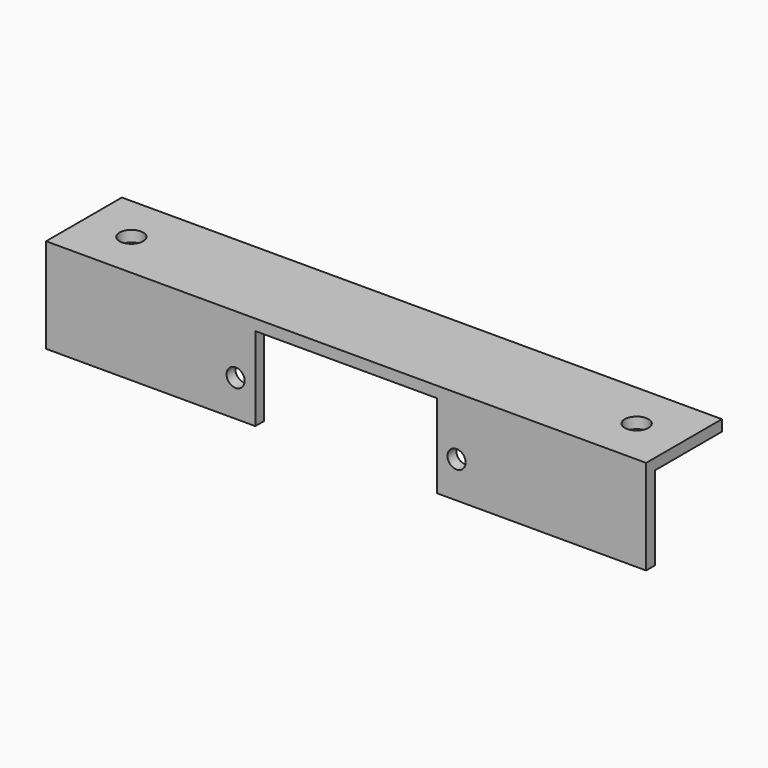
from build123d import *

# Parameters (mm, degrees)
F1_DEPTH = 76
F2_W     = 23
F2_H     = 10.6
F2_R     = 1.15
F3_DEPTH = 1.4
F4_R     = 1.5
F5_DEPTH = 1.4


with BuildPart() as f1:
    # F0 (on Right) → F1 (new body)
    with BuildSketch(Plane.YZ):
        Polygon((0, 12), (0, 0), (1.4, 0), (1.4, 10.6), (12, 10.6), (12, 12), align=None)
    extrude(amount=F1_DEPTH)

    # F2 (on face) → F3 (cut, through all)
    with BuildSketch(Plane.XZ):
        with Locations((38, 5.3)):
            Rectangle(F2_W, F2_H)
        with Locations((24.01, 4.6)):
            Circle(F2_R)
        with Locations((51.99, 4.6)):
            Circle(F2_R)
    extrude(amount=-F3_DEPTH, mode=Mode.SUBTRACT)

    # F4 (on face) → F5 (cut, through all)
    with BuildSketch(Plane.XY.offset(12)):
        with Locations((6, 6)):
            Circle(F4_R)
        with Locations((70, 6)):
            Circle(F4_R)
    extrude(amount=-F5_DEPTH, mode=Mode.SUBTRACT)


solid = f1.part
